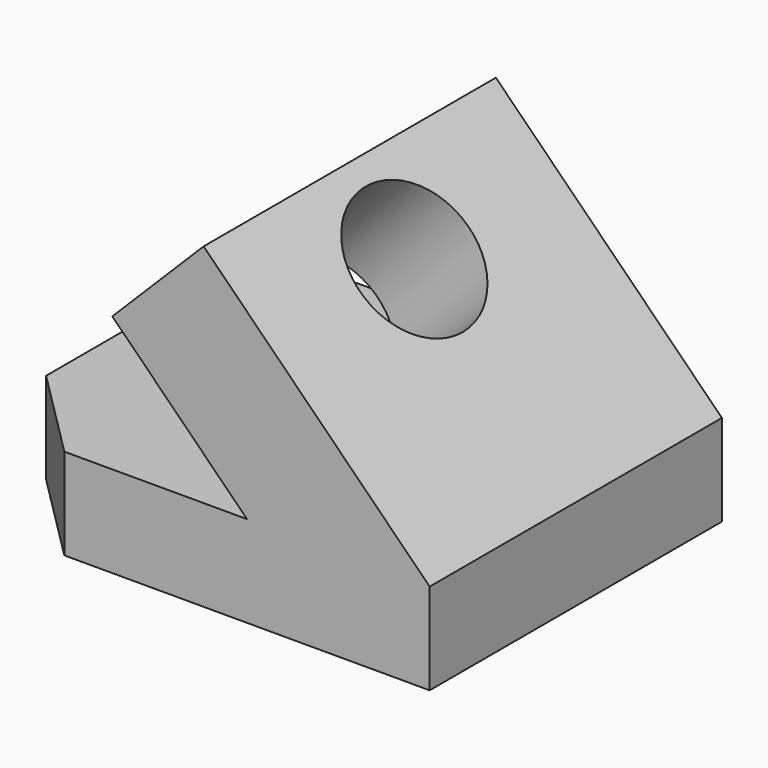
from build123d import *

# Parameters (mm, degrees)
F1_DEPTH = 203.2
F2_R     = 38.1
F3_DEPTH = 76.2
F5_DEPTH = 50.8


with BuildPart() as f1:
    # F0 (on Front) → F1 (new body)
    with BuildSketch(Plane.XZ):
        Polygon((-254, 0), (0, 0), (0, 50.8), (-125.723586, 176.523586), (-176.523586, 125.723586), (-101.6, 50.8), (-254, 50.8), align=None)
    extrude(amount=-F1_DEPTH)

    # F2 (on face) → F3 (cut)
    with BuildSketch(Plane(origin=(25.4, 0, 25.4), x_dir=(0.707107, 0, -0.707107), z_dir=(0.707107, 0, 0.707107))):
        with Locations((-162.921024, 101.6)):
            Circle(F2_R)
    extrude(amount=-F3_DEPTH, mode=Mode.SUBTRACT)

    # F4 (on face) → F5 (cut)
    with BuildSketch(Plane.XY.offset(50.8)):
        Polygon((-254, 203.2), (-254, 152.4), (-203.2, 203.2), align=None)
        Polygon((-254, 50.8), (-254, 0), (-203.2, 0), align=None)
    extrude(amount=-F5_DEPTH, mode=Mode.SUBTRACT)


solid = f1.part
